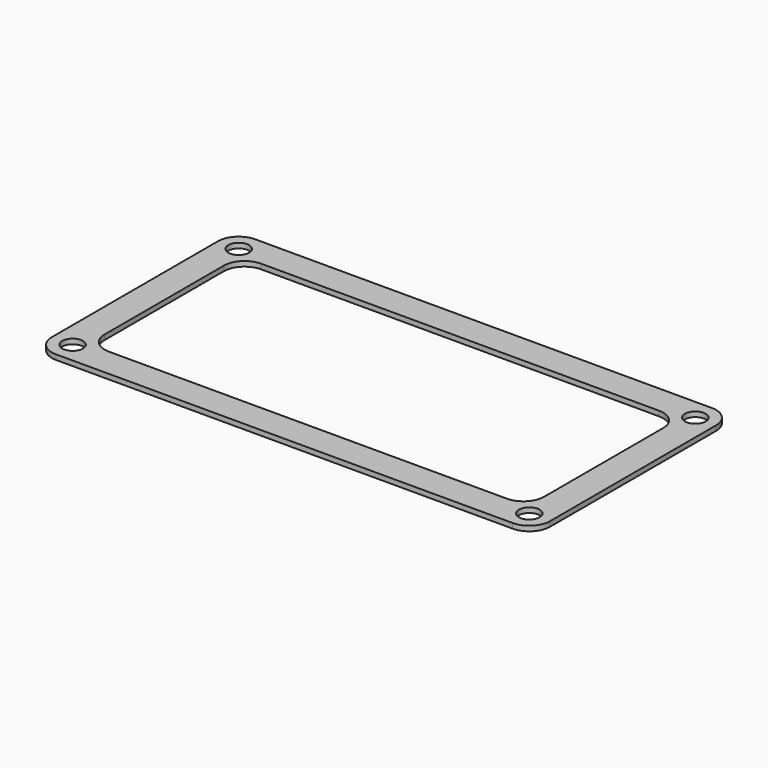
from build123d import *

# Parameters (mm, degrees)
F1_DEPTH = 6
F2_D     = 25
F3_D     = 25
F4_D     = 25


with BuildPart() as f1:
    # F0 (on Top) → F1 (new body)
    with BuildSketch(Plane.XY):
        with BuildLine():
            Line((-275, -150), (275, -150))
            ThreePointArc((275, -150), (292.67767, -142.67767), (300, -125))
            Line((300, -125), (300, 125))
            ThreePointArc((300, 125), (292.67767, 142.67767), (275, 150))
            Line((275, 150), (-275, 150))
            ThreePointArc((-275, 150), (-292.67767, 142.67767), (-300, 125))
            Line((-300, 125), (-300, -125))
            ThreePointArc((-300, -125), (-292.67767, -142.67767), (-275, -150))
        make_face()
        with BuildLine():
            ThreePointArc((264.644661, -89.644661), (257.32233, -107.32233), (239.644661, -114.644661))
            Line((239.644661, -114.644661), (-239.644661, -114.644661))
            ThreePointArc((-239.644661, -114.644661), (-257.32233, -107.32233), (-264.644661, -89.644661))
            Line((-264.644661, -89.644661), (-264.644661, 89.644661))
            ThreePointArc((-264.644661, 89.644661), (-257.32233, 107.32233), (-239.644661, 114.644661))
            Line((-239.644661, 114.644661), (239.644661, 114.644661))
            ThreePointArc((239.644661, 114.644661), (257.32233, 107.32233), (264.644661, 89.644661))
            Line((264.644661, 89.644661), (264.644661, -89.644661))
        make_face(mode=Mode.SUBTRACT)
    extrude(amount=F1_DEPTH)

    # F2 (through all)
    with Locations(Plane(origin=(0, 0, 0), x_dir=(1, 0, 0), z_dir=(0, 0, -1))):
        with Locations((-275, -125)):
            Hole(F2_D / 2)

    # F3 (through all)
    with Locations(Plane(origin=(0, 0, 0), x_dir=(1, 0, 0), z_dir=(0, 0, -1))):
        with Locations((-275, 125), (275, -125)):
            Hole(F3_D / 2)

    # F4 (through all)
    with Locations(Plane(origin=(0, 0, 0), x_dir=(1, 0, 0), z_dir=(0, 0, -1))):
        with Locations((275, 125)):
            Hole(F4_D / 2)


solid = f1.part
